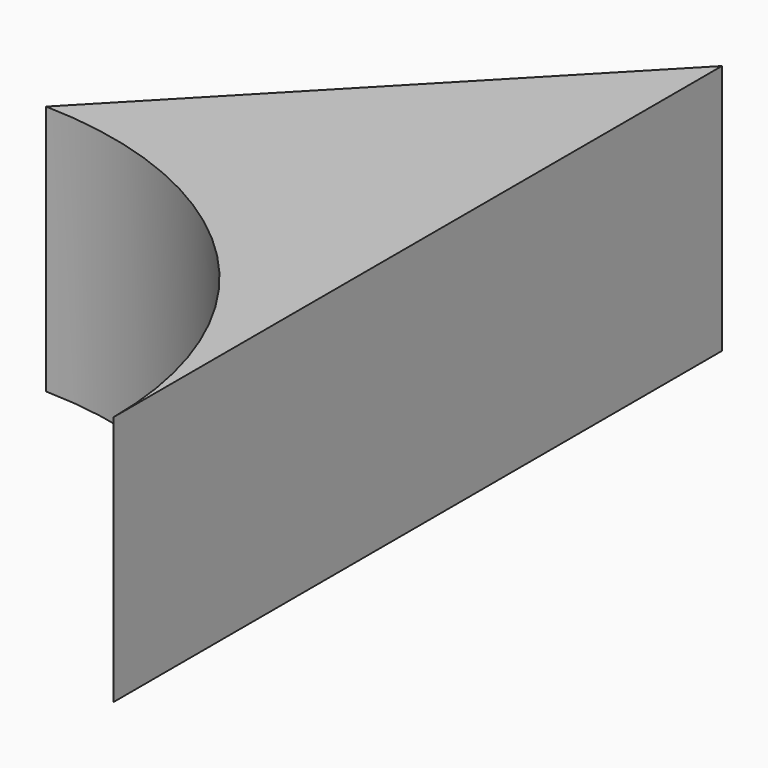
from build123d import *

# Parameters (mm, degrees)
F1_DEPTH      = 25.4
F1_DEPTH_BACK = 25.4


with BuildPart() as f1:
    # F0 (on Top) → F1 (new body, two sides)
    with BuildSketch(Plane.XY) as f1_sk:
        with BuildLine():
            ThreePointArc((-74.785977602, 0), (-21.8103564368, -22.922920221), (0, -76.3662084937))
            Line((0, -76.3662084937), (0, 77.6216983795))
            Line((0, 77.6216983795), (-74.785977602, 0))
        make_face()
    extrude(amount=-F1_DEPTH)
    extrude(f1_sk.sketch, amount=F1_DEPTH_BACK)


solid = f1.part
